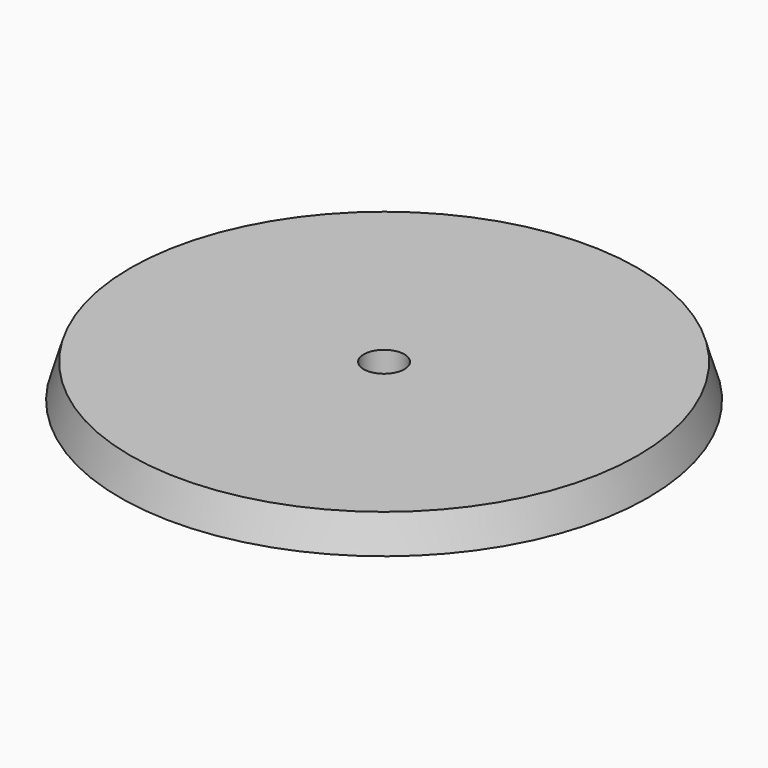
from build123d import *

# Parameters (mm, degrees)
SKETCH001_R  = 3
POCKET_DEPTH = 5.001


with BuildPart() as part:
    # Sketch → Revolution (revolve)
    with BuildSketch(Plane.XZ):
        Polygon((0, 0), (0, 5), (37.5, 5), (39, 0), align=None)
    revolve(axis=Axis((0, 0, 0), (0, 0, 1)))

    # Sketch001 (on Face1 of Revolution) → Pocket (cut, through all)
    with BuildSketch(Plane(origin=(0, 0, 5), x_dir=(-1, 0, 0), z_dir=(0, 0, 1))):
        Circle(SKETCH001_R)
    extrude(amount=-POCKET_DEPTH, mode=Mode.SUBTRACT)


solid = part.part
